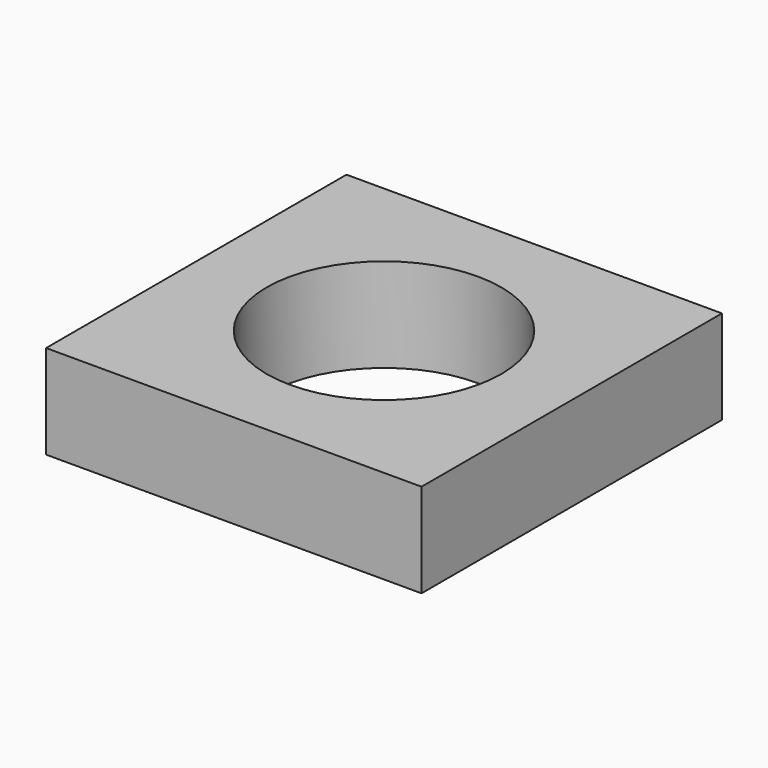
from build123d import *

# Parameters (mm, degrees)
F0_W     = 40
F0_H     = 40
F1_DEPTH = 10
F2_W     = 1.6
F2_H     = 30
F3_DEPTH = 1.25
F4_R     = 12.5
F5_DEPTH = 12.5


with BuildPart() as f1:
    # F0 (on Top) → F1 (new body)
    with BuildSketch(Plane.XY):
        Rectangle(F0_W, F0_H)
    extrude(amount=F1_DEPTH)

    # F2 (on Top) → F3 (cut, symmetric)
    with BuildSketch(Plane.XY):
        with Locations((-15, 0)):
            Rectangle(F2_W, F2_H)
        with Locations((-15, 0)):
            Rectangle(F2_W, F2_H)
        with Locations((15, 0)):
            Rectangle(F2_W, F2_H)
    extrude(amount=F3_DEPTH, both=True, mode=Mode.SUBTRACT)

    # F4 (on Top) → F5 (cut, symmetric)
    with BuildSketch(Plane.XY):
        Circle(F4_R)
    extrude(amount=F5_DEPTH, both=True, mode=Mode.SUBTRACT)


solid = f1.part
